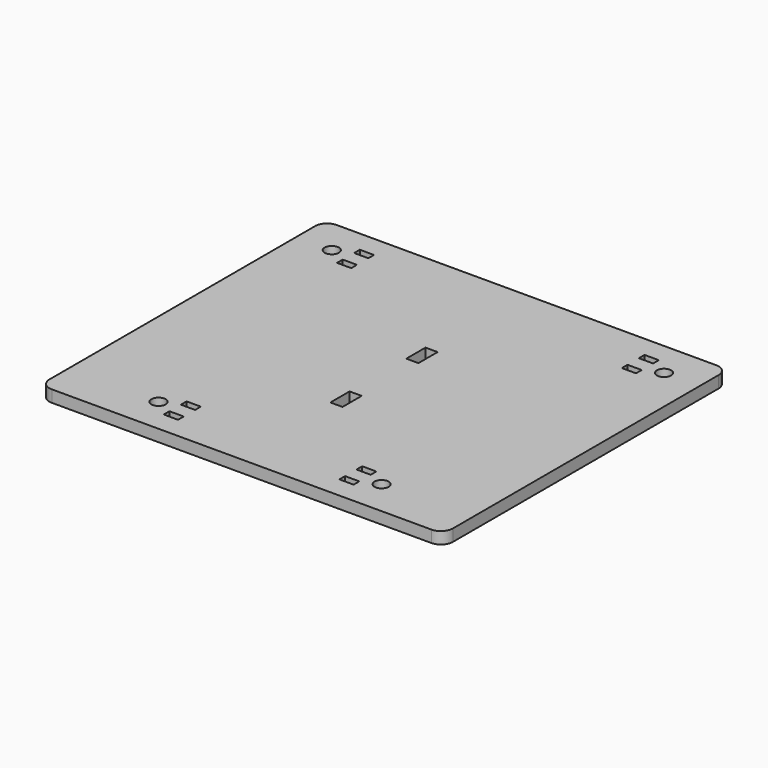
from build123d import *

# Parameters (mm, degrees)
F0_R     = 3
F0_W     = 6
F0_H     = 3
F0_W_2   = 5.1
F0_H_2   = 10.1
F1_DEPTH = 5


with BuildPart() as f1:
    # F0 (on Top) → F1 (new body)
    with BuildSketch(Plane.XY):
        with BuildLine():
            ThreePointArc((85, 70), (83.535534, 73.535534), (80, 75))
            Line((80, 75), (-80, 75))
            ThreePointArc((-80, 75), (-83.535534, 73.535534), (-85, 70))
            Line((-85, 70), (-85, -70))
            ThreePointArc((-85, -70), (-83.535534, -73.535534), (-80, -75))
            Line((-80, -75), (80, -75))
            ThreePointArc((80, -75), (83.535534, -73.535534), (85, -70))
            Line((85, -70), (85, 70))
        make_face()
        with Locations((-47, -60)):
            Circle(F0_R, mode=Mode.SUBTRACT)
        with Locations((-37, -64.5)):
            Rectangle(F0_W, F0_H, mode=Mode.SUBTRACT)
        with Locations((-37, -55.5)):
            Rectangle(F0_W, F0_H, mode=Mode.SUBTRACT)
        with Locations((37, -64.5)):
            Rectangle(F0_W, F0_H, mode=Mode.SUBTRACT)
        with Locations((37, -55.5)):
            Rectangle(F0_W, F0_H, mode=Mode.SUBTRACT)
        with Locations((47, -60)):
            Circle(F0_R, mode=Mode.SUBTRACT)
        with Locations((0, -20)):
            Rectangle(F0_W_2, F0_H_2, mode=Mode.SUBTRACT)
        with Locations((-60, 55.5)):
            Rectangle(F0_W, F0_H, mode=Mode.SUBTRACT)
        with Locations((-70, 60)):
            Circle(F0_R, mode=Mode.SUBTRACT)
        with Locations((-60, 64.5)):
            Rectangle(F0_W, F0_H, mode=Mode.SUBTRACT)
        with Locations((0, 20)):
            Rectangle(F0_W_2, F0_H_2, mode=Mode.SUBTRACT)
        with Locations((60, 55.5)):
            Rectangle(F0_W, F0_H, mode=Mode.SUBTRACT)
        with Locations((60, 64.5)):
            Rectangle(F0_W, F0_H, mode=Mode.SUBTRACT)
        with Locations((70, 60)):
            Circle(F0_R, mode=Mode.SUBTRACT)
    extrude(amount=F1_DEPTH)


solid = f1.part
